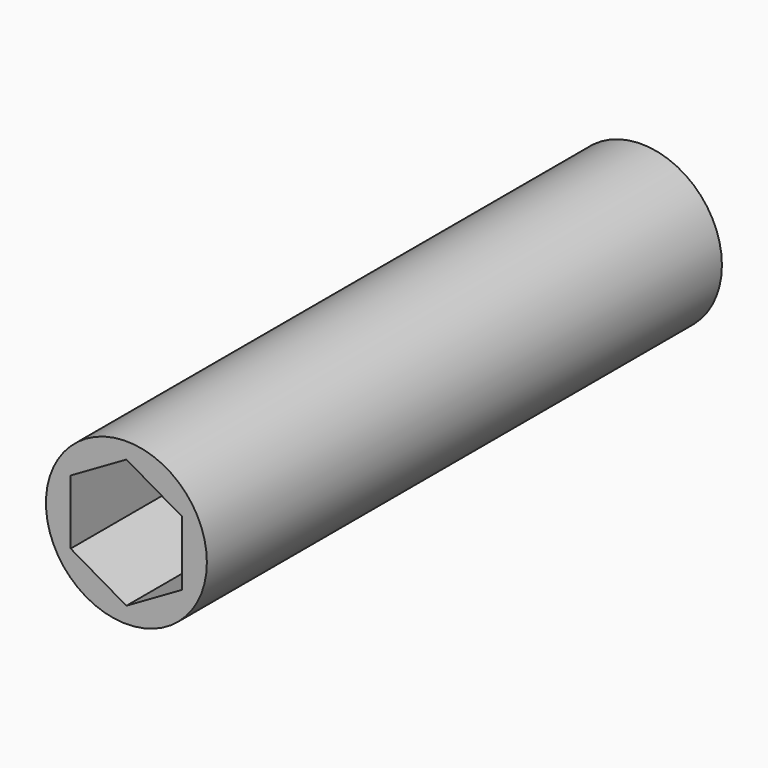
from build123d import *

# Parameters (mm, degrees)
F0_R     = 63.5
F1_DEPTH = 254
F2_W     = 50.8
F2_H     = 50.8
F3_DEPTH = 203.2
F5_DEPTH = 203.2


with BuildPart() as f1:
    # F0 (on Front) → F1 (new body, symmetric)
    with BuildSketch(Plane.XZ):
        Circle(F0_R)
    extrude(amount=F1_DEPTH, both=True)

    # F2 (on face) → F3 (cut)
    with BuildSketch(Plane(origin=(0, 254, 0), x_dir=(-1, 0, 0), z_dir=(0, 1, 0))):
        Rectangle(F2_W, F2_H)
    extrude(amount=-F3_DEPTH, mode=Mode.SUBTRACT)

    # F4 (on face) → F5 (cut)
    with BuildSketch(Plane.XZ.offset(254)):
        Polygon((-43.994091, -25.4), (0, -50.8), (43.994091, -25.4), (43.994091, 25.4), (0, 50.8), (-43.994091, 25.4), align=None)
    extrude(amount=-F5_DEPTH, mode=Mode.SUBTRACT)


solid = f1.part
